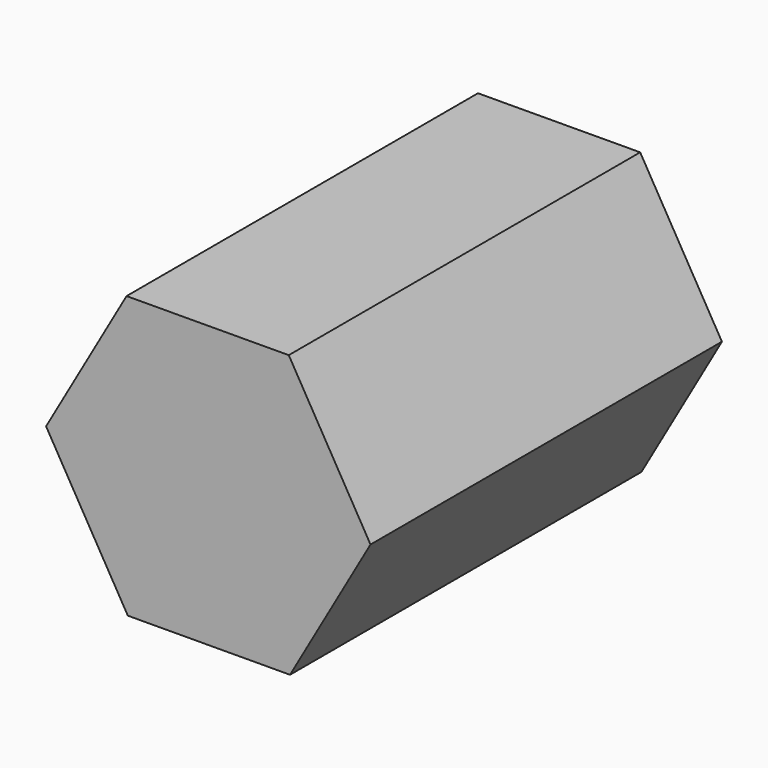
from build123d import *

# Parameters (mm, degrees)
F2_DEPTH = 25.4
F1_R     = 15.1955207551
F3_DEPTH = 25.4
F5_T     = -2.54


with BuildPart() as f2:
    # F0 (on Front) → F2 (new body)
    with BuildSketch(Plane.XZ):
        Polygon((-25.7299293739, 46.9676795868), (-35.1098738611, 46.9256974757), (-39.7634885299, 38.7814362081), (-35.0371587116, 30.6791570516), (-25.6572142243, 30.7211391628), (-21.0035995555, 38.8654004304), align=None)
    extrude(amount=F2_DEPTH)


with BuildPart() as f2b:
    # F1 (on Front) → F2, piece 2 (new body)
    with BuildSketch(Plane.XZ):
        with Locations((-30.7211373199, 39.1610125489)):
            Circle(F1_R)
    extrude(amount=F2_DEPTH)

    # F4: intersect F2
    add(f2.part, mode=Mode.INTERSECT)

    # F5
    f5_openings = [f2b.faces().sort_by_distance(p)[0] for p in [
        (-30.383544, 0, 38.823418),
        (-30.383544, -25.4, 38.823418),
    ]]
    offset(amount=F5_T, openings=f5_openings)


with BuildPart() as f3:
    # F0 (on Front) → F3 (new body)
    with BuildSketch(Plane.XZ):
        Polygon((-25.7299293739, 46.9676795868), (-35.1098738611, 46.9256974757), (-39.7634885299, 38.7814362081), (-35.0371587116, 30.6791570516), (-25.6572142243, 30.7211391628), (-21.0035995555, 38.8654004304), align=None)
    extrude(amount=F3_DEPTH)


solid = Compound([f2b.part, f3.part])
